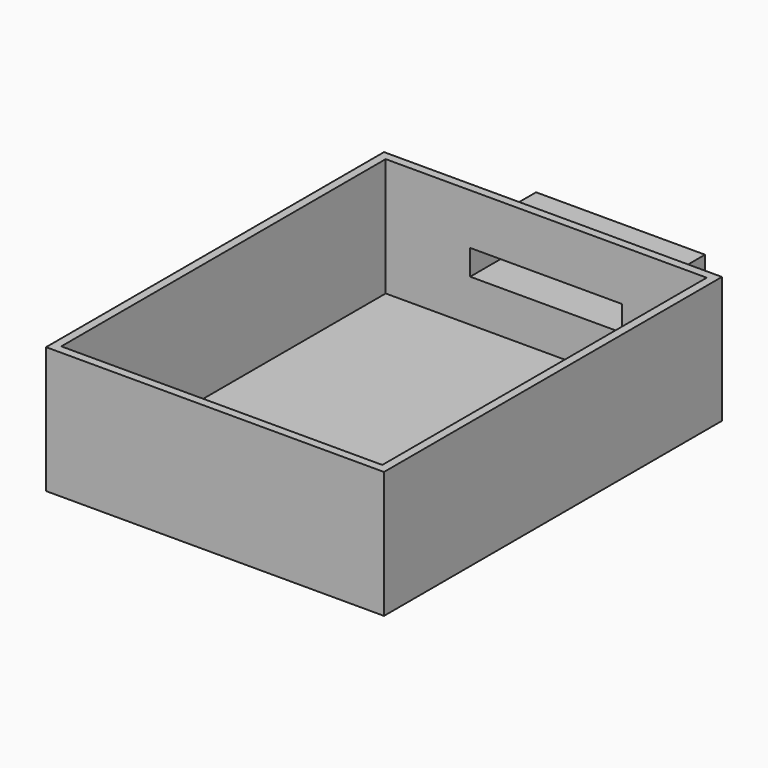
from build123d import *

# Parameters (mm, degrees)
F0_W      = 101.6
F0_H      = 38.1
F1_DEPTH  = 127
F2_W      = 50.8
F2_H      = 12.7
F1_FACE_W = 101.6
F1_FACE_H = 38.1
F3_DEPTH  = 25.4
F4_T      = -2.54


with BuildPart() as f1:
    # F0 (on Front) → F1 (new body)
    with BuildSketch(Plane.XZ):
        Rectangle(F0_W, F0_H)
    extrude(amount=F1_DEPTH)

    # F2 (on Front) + F1_face (on face) → F3 (join)
    with BuildSketch(Plane.XZ):
        Rectangle(F2_W, F2_H)
    with BuildSketch(Plane.XZ.offset(127)):
        Rectangle(F1_FACE_W, F1_FACE_H)
    extrude(amount=-F3_DEPTH)

    # F4
    f4_openings = [f1.faces().sort_by_distance(p)[0] for p in [
        (0, -63.5, 19.05),
    ]]
    offset(amount=F4_T, openings=f4_openings, kind=Kind.INTERSECTION)


solid = f1.part
